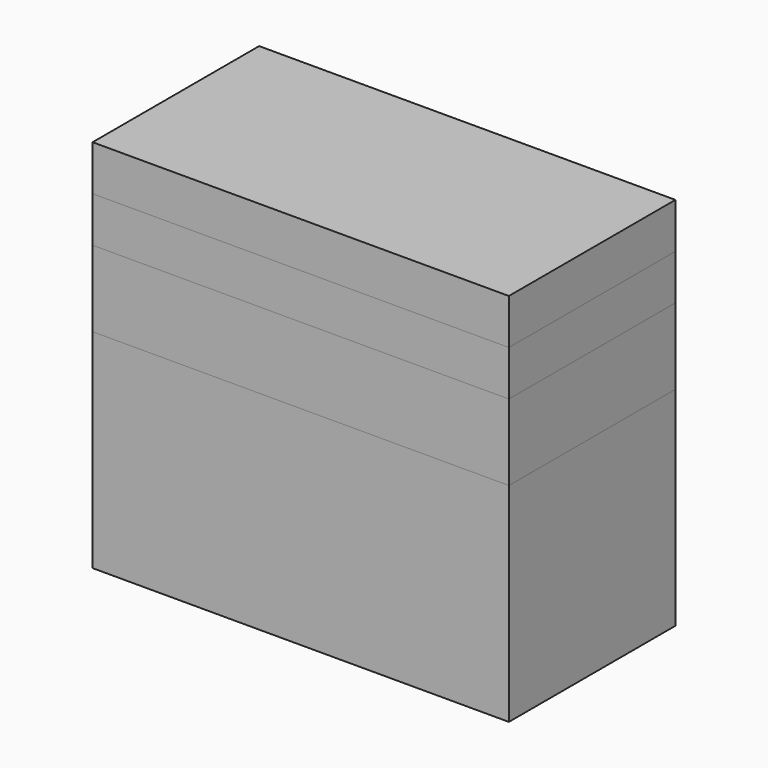
from build123d import *

# Parameters (mm, degrees)
F1_DEPTH = 20
F0_W     = 40
F0_H     = 7.314723
F2_DEPTH = 20
F0_H_2   = 4.357709
F3_DEPTH = 20
F0_H_3   = 4.357706
F4_DEPTH = 20


with BuildPart() as f1:
    # F0 (on Front) → F1 (new body)
    with BuildSketch(Plane.XZ):
        Polygon((-20, -20), (0, -20), (20, -20), (20, 0), (-20, 0), align=None)
    extrude(amount=F1_DEPTH)


with BuildPart() as f2:
    # F0 (on Front) → F2 (new body)
    with BuildSketch(Plane.XZ):
        with Locations((0, 3.657361)):
            Rectangle(F0_W, F0_H)
    extrude(amount=F2_DEPTH)


with BuildPart() as f3:
    # F0 (on Front) → F3 (new body)
    with BuildSketch(Plane.XZ):
        with Locations((0, 9.493577)):
            Rectangle(F0_W, F0_H_2)
    extrude(amount=F3_DEPTH)


with BuildPart() as f4:
    # F0 (on Front) → F4 (new body)
    with BuildSketch(Plane.XZ):
        with Locations((0, 13.851285)):
            Rectangle(F0_W, F0_H_3)
    extrude(amount=F4_DEPTH)


solid = Compound([f1.part, f2.part, f3.part, f4.part])
